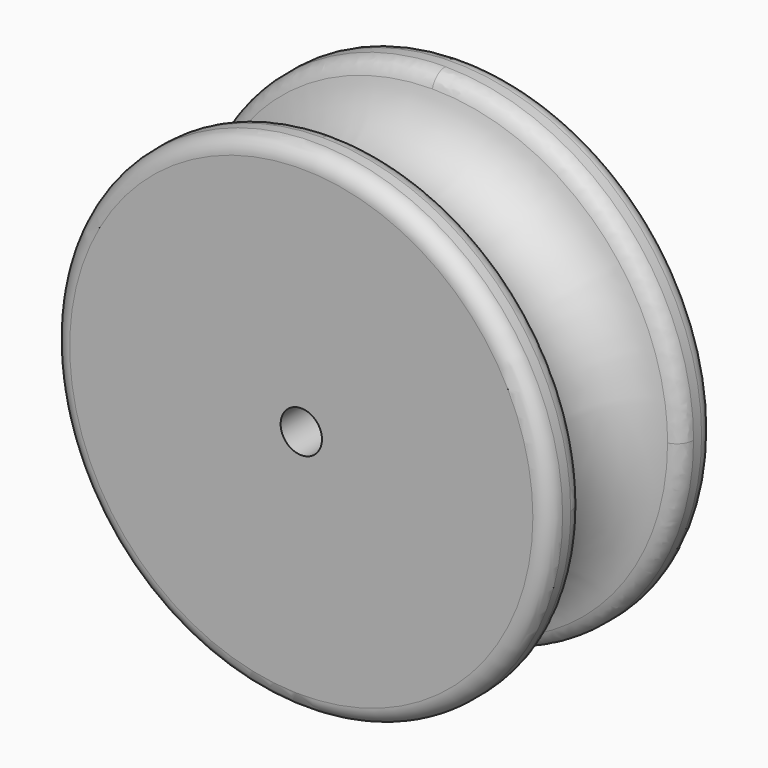
from build123d import *

# Parameters (mm, degrees)
F0_R     = 7.62
F1_DEPTH = 3.175
F2_R     = 1.905
F4_R     = 0.508
F5_R     = 0.635
F6_DEPTH = 6.35


with BuildPart() as f1:
    # F0 (on Front) → F1 (new body, symmetric)
    with BuildSketch(Plane.XZ):
        Circle(F0_R)
    extrude(amount=F1_DEPTH, both=True)

    # F2 (on Right) → F3 (revolve, cut)
    with BuildSketch(Plane.YZ):
        with Locations((0, 7.62)):
            Circle(F2_R)
    revolve(axis=Axis((0, 2.3833420128, 0), (0, 1, 0)), mode=Mode.SUBTRACT)

    # F4#2 (call 1 of 4: OpenCascade refuses the feature's edges together)
    f4_2_edges = [f1.edges().sort_by_distance(p)[0] for p in [
        (-5.388154, -1.905, -5.388154),
        (5.388154, -1.905, 5.388154),
    ]]
    fillet(f4_2_edges, radius=F4_R)

    # F4#3 (call 2 of 4)
    f4_3_edges = [f1.edges().sort_by_distance(p)[0] for p in [
        (-7.62, -3.175, 0),
    ]]
    fillet(f4_3_edges, radius=F4_R)

    # F4#4 (call 3 of 4)
    f4_4_edges = [f1.edges().sort_by_distance(p)[0] for p in [
        (-7.62, 3.175, 0),
    ]]
    fillet(f4_4_edges, radius=F4_R)

    # F4 (call 4 of 4)
    f4_edges = [f1.edges().sort_by_distance(p)[0] for p in [
        (5.388154, 1.905, 5.388154),
        (-5.388154, 1.905, -5.388154),
    ]]
    fillet(f4_edges, radius=F4_R)

    # F5 (on face) → F6 (cut, through all)
    with BuildSketch(Plane.XZ.offset(3.175)):
        Circle(F5_R)
    extrude(amount=-F6_DEPTH, mode=Mode.SUBTRACT)


solid = f1.part
